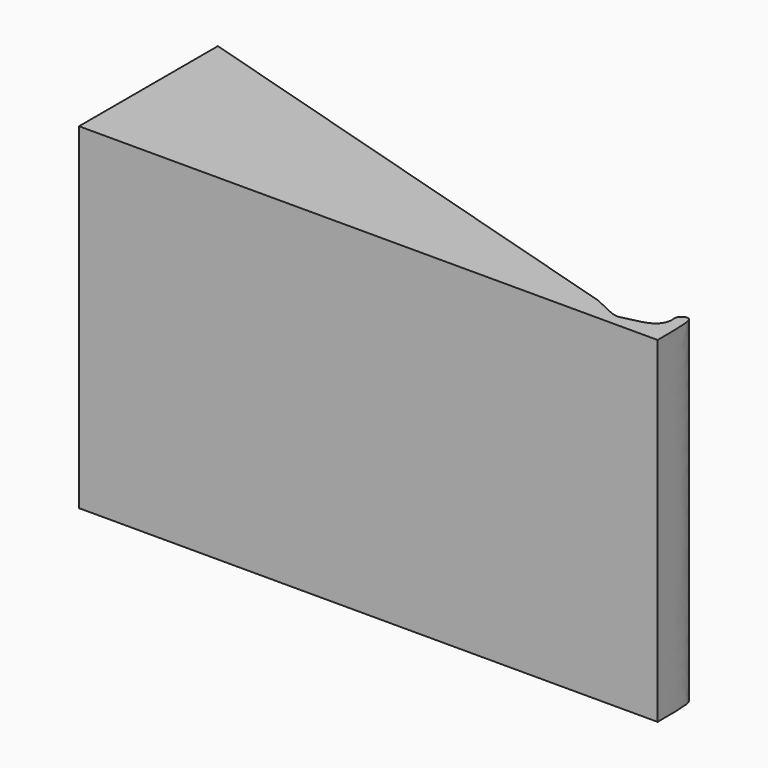
from build123d import *

# Parameters (mm, degrees)
F1_DEPTH = 87.1633887291


with BuildPart() as f1:
    # F0 (on Top) → F1 (new body)
    with BuildSketch(Plane.XY):
        with BuildLine():
            Line((40.7936650046, -19.4525868572), (40.7936650046, -64.4525868572))
            Line((40.7936650046, -64.4525868572), (190.7936650046, -64.4525868572))
            add(Edge.make_bspline(
                [(170.7927435637, -58.5139729083), (173.4753963361, -59.8788660484), (177.5015817402, -61.9273280443), (179.2227341303, -61.0160304408), (186.0477684746, -60.1608306119), (187.9308423677, -56.300581845), (187.0755950103, -53.9232719305), (189.7880050664, -52.574613493), (190.4023330497, -54.0948348565), (190.7695244947, -56.0514620187), (190.7838868277, -61.0506912159), (190.7936650046, -64.4525868572)],
                knots=[0, 0, 0, 0, 0.1607431116, 0.241246857, 0.3917610196, 0.506887568, 0.5936531156, 0.6806492424, 0.7441000364, 0.8258640397, 1, 1, 1, 1], degree=3))
            Line((170.7927435637, -58.5139729083), (40.7936650046, -19.4525868572))
        make_face()
    extrude(amount=-F1_DEPTH)


solid = f1.part
